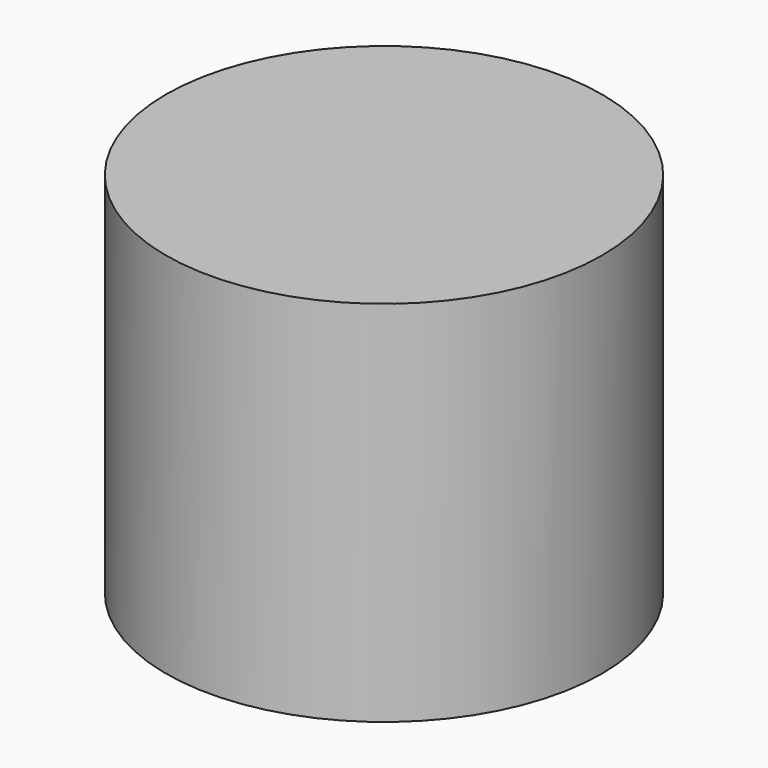
from build123d import *

# Parameters (mm, degrees)
F0_R     = 25.350129
F1_DEPTH = 42.8


with BuildPart() as f1:
    # F0 (on Top) → F1 (new body)
    with BuildSketch(Plane.XY):
        with Locations((-10.865167, 2.873432)):
            Circle(F0_R)
    extrude(amount=-F1_DEPTH)


solid = f1.part
